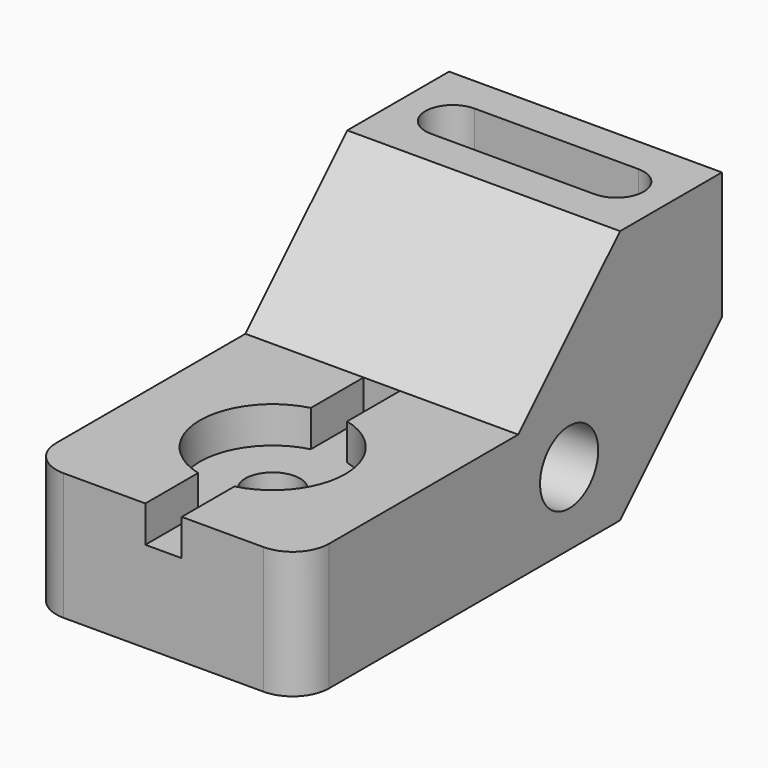
from build123d import *

# Parameters (mm, degrees)
F1_DEPTH       = 76.2
F2_R           = 10.16
F3_DEPTH       = 76.201
F5_DEPTH       = 27.94
F8_D           = 15.24
F8_CBORE_D     = 40.64
F8_CBORE_DEPTH = 10.16
F9_W           = 10.16
F9_H           = 76.2
F10_DEPTH      = 10.16
F11_R          = 10.16


with BuildPart() as f1:
    # F0 (on Right) → F1 (new body)
    with BuildSketch(Plane.YZ):
        Polygon((0, 35.56), (0, 0), (111.76, 0), (147.32, 35.56), (147.32, 71.12), (111.76, 71.12), (76.2, 35.56), align=None)
    extrude(amount=F1_DEPTH)

    # F2 (on face) → F3 (cut, through all)
    with BuildSketch(Plane.YZ.offset(76.2)):
        with Locations((93.98, 20.32)):
            Circle(F2_R)
    extrude(amount=-F3_DEPTH, mode=Mode.SUBTRACT)

    # F4 (on face) → F5 (cut)
    with BuildSketch(Plane.XY.offset(71.12)):
        with BuildLine():
            Line((60.96, 137.16), (15.24, 137.16))
            ThreePointArc((15.24, 137.16), (7.62, 129.54), (15.24, 121.92))
            Line((15.24, 121.92), (60.96, 121.92))
            ThreePointArc((60.96, 121.92), (68.58, 129.54), (60.96, 137.16))
        make_face()
    extrude(amount=-F5_DEPTH, mode=Mode.SUBTRACT)

    # F8 (through all)
    with Locations(Plane.XY.offset(35.56)):
        with Locations((38.1, 38.1)):
            CounterBoreHole(F8_D / 2, F8_CBORE_D / 2, F8_CBORE_DEPTH)

    # F9 (on face) → F10 (cut)
    with BuildSketch(Plane.XY.offset(35.56)):
        with Locations((38.1, 38.1)):
            Rectangle(F9_W, F9_H)
    extrude(amount=-F10_DEPTH, mode=Mode.SUBTRACT)

    # F11
    f11_edges = [f1.edges().sort_by_distance(p)[0] for p in [
        (76.2, 0, 17.78),
        (0, 0, 17.78),
    ]]
    fillet(f11_edges, radius=F11_R)


solid = f1.part
